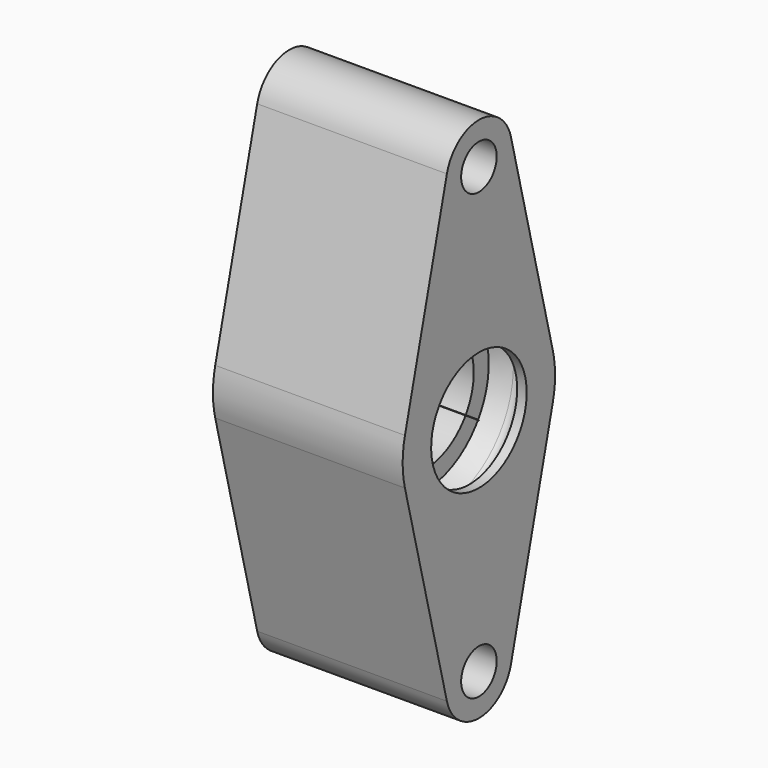
from build123d import *

# Parameters (mm, degrees)
F2_R          = 7
F4_DEPTH      = 33.3065602455
F4_DEPTH_BACK = 26.4416433064


with BuildPart() as f3:
    # F0 (on Front) → F3 (revolve)
    with BuildSketch(Plane.XZ):
        with BuildLine():
            Line((-23.4416433064, 0), (-26.4416433064, 0))
            Line((-26.4416433064, 0), (-26.4416433064, -18.75))
            Line((-26.4416433064, -18.75), (33.3065602455, -18.75))
            Line((33.3065602455, -18.75), (33.3065602455, 0))
            Line((33.3065602455, 0), (30.3065602455, 0))
            Line((30.3065602455, 0), (30.3065602455, 6.15))
            Line((30.3065602455, 6.15), (24.5786576005, 8.6725991642))
            ThreePointArc((24.5786576005, 8.6725991642), (23.3695093576, 8.927064512), (22.1603611146, 8.6725991642))
            Line((22.1603611146, 8.6725991642), (16.4324584696, 6.15))
            Line((16.4324584696, 6.15), (16.4324584696, 0.25))
            Line((16.4324584696, 0.25), (3.4324584696, 0.25))
            Line((3.4324584696, 0.25), (-9.5675415304, 0.25))
            Line((-9.5675415304, 0.25), (-9.5675415304, 6.15))
            Line((-9.5675415304, 6.15), (-15.2954441754, 8.6725991642))
            ThreePointArc((-15.2954441754, 8.6725991642), (-16.5045924184, 8.927064512), (-17.7137406613, 8.6725991642))
            Line((-17.7137406613, 8.6725991642), (-23.4416433064, 6.15))
            Line((-23.4416433064, 6.15), (-23.4416433064, 0))
        make_face()
    revolve(axis=Axis((2.1554362029, 0, -18.8102256507), (-1, 0, 0)))


with BuildPart() as f4:
    # F2 (on Right) → F4 (new body, two sides)
    with BuildSketch(Plane.YZ) as f4_sk:
        with BuildLine():
            Line((-12.6089768233, 54.6192074868), (-29.1248044555, -11.1894187234))
            ThreePointArc((-29.1248044555, -11.1894187234), (-29.8007207167, -14.8129297506), (-30.0271656326, -18.4919809402))
            Line((-30.0271656326, -18.4919809402), (29.9728343674, -18.4919809402))
            ThreePointArc((29.9728343674, -18.4919809402), (29.7478160608, -14.8244933595), (29.0761366904, -11.2120225685))
            Line((29.0761366904, -11.2120225685), (12.6114310066, 54.6094124873))
            ThreePointArc((12.6114310066, 54.6094124873), (0.0050488868, 64.4547628791), (-12.6089768233, 54.6192074868))
        make_face()
        with Locations((0, 51.4547638595)):
            Circle(F2_R, mode=Mode.SUBTRACT)
        with BuildLine():
            Line((29.9728343674, -18.4919809402), (-30.0271656326, -18.4919809402))
            ThreePointArc((-30.0271656326, -18.4919809402), (-29.8007207167, -22.1710321299), (-29.1248044555, -25.7945431571))
            Line((-29.1248044555, -25.7945431571), (-12.6089768233, -91.6031693673))
            ThreePointArc((-12.6089768233, -91.6031693673), (0.0050488868, -101.4387247595), (12.6114310066, -91.5933743677))
            Line((12.6114310066, -91.5933743677), (29.0761366904, -25.771939312))
            ThreePointArc((29.0761366904, -25.771939312), (29.7478160608, -22.1594685209), (29.9728343674, -18.4919809402))
        make_face()
        with Locations((0, -88.43872574)):
            Circle(F2_R, mode=Mode.SUBTRACT)
    extrude(amount=F4_DEPTH)
    extrude(f4_sk.sketch, amount=-F4_DEPTH_BACK)

    # F5: cut F3
    add(f3.part, mode=Mode.SUBTRACT)


solid = f4.part
